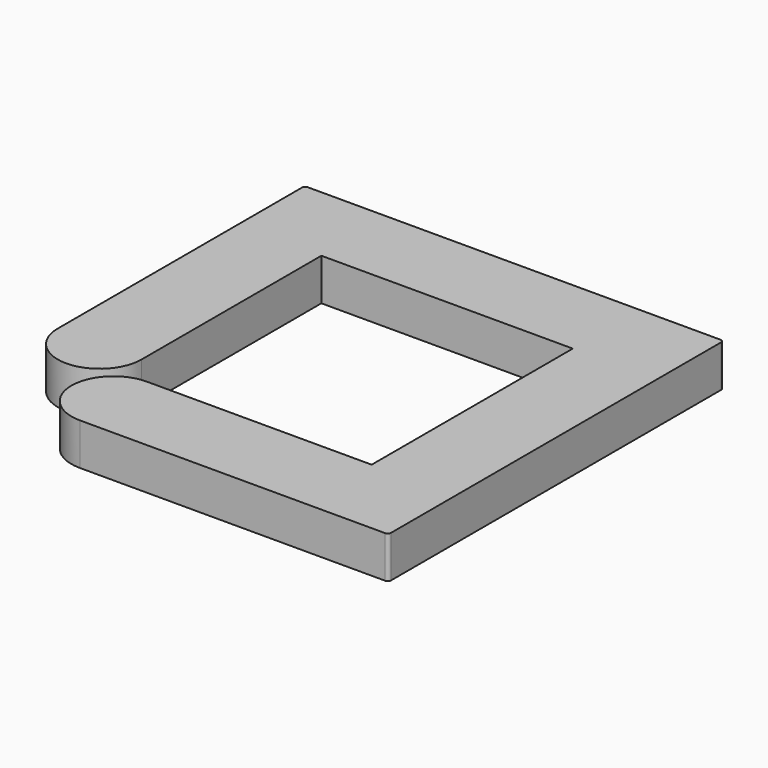
from build123d import *

# Parameters (mm, degrees)
F1_DEPTH = 2.54


with BuildPart() as f1:
    # F0 (on Top) → F1 (new body)
    with BuildSketch(Plane.XY):
        with BuildLine():
            Line((-6.002212, -12.7), (12.5, -12.7))
            ThreePointArc((12.5, -12.7), (12.641421, -12.641421), (12.7, -12.5))
            Line((12.7, -12.5), (12.7, 12.5))
            ThreePointArc((12.7, 12.5), (12.641421, 12.641421), (12.5, 12.7))
            Line((12.5, 12.7), (-12.5, 12.7))
            ThreePointArc((-12.5, 12.7), (-12.641421, 12.641421), (-12.7, 12.5))
            Line((-12.7, 12.5), (-12.7, -6.002212))
            ThreePointArc((-12.7, -6.002212), (-10.16, -8.542212), (-7.62, -6.002212))
            Line((-7.62, -6.002212), (-7.62, 7.62))
            Line((-7.62, 7.62), (7.62, 7.62))
            Line((7.62, 7.62), (7.62, -7.62))
            Line((7.62, -7.62), (-6.002212, -7.62))
            ThreePointArc((-6.002212, -7.62), (-8.542212, -10.16), (-6.002212, -12.7))
        make_face()
    extrude(amount=F1_DEPTH)


solid = f1.part
